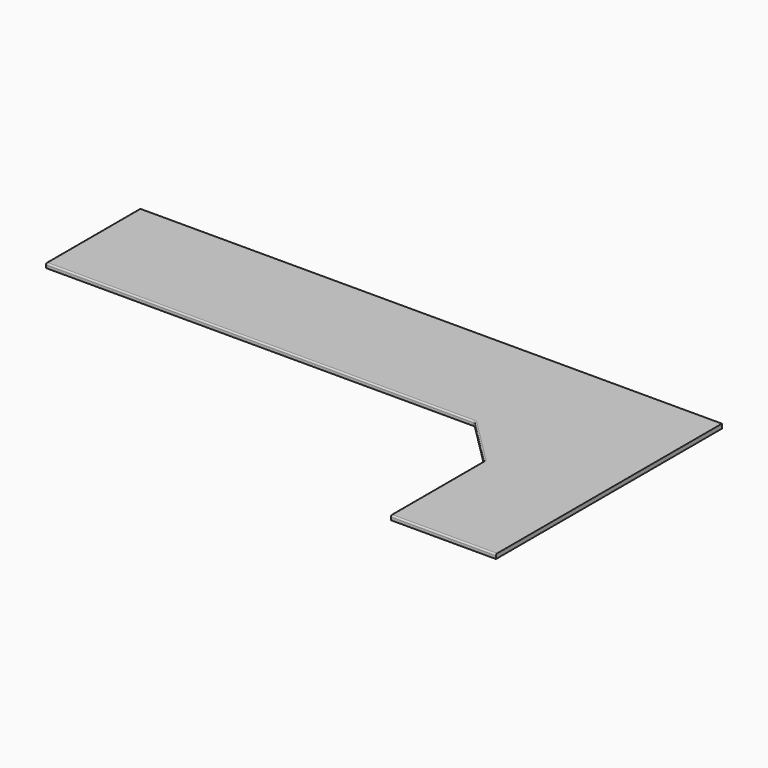
from build123d import *

# Parameters (mm, degrees)
F1_DEPTH = 19.05
F2_R     = 12.7
F3_R     = 6.35
F4_R     = 6.35


with BuildPart() as f1:
    # F0 (on Top) → F1 (new body)
    with BuildSketch(Plane.XY):
        Polygon((0, -1219.2), (0, 0), (-2514.6, 0), (-2514.6, -508), (-660.4, -508), (-457.2, -711.2), (-457.2, -1219.2), align=None)
    extrude(amount=F1_DEPTH)

    # F2
    f2_edges = [f1.edges().sort_by_distance(p)[0] for p in [
        (-660.4, -508, 9.525),
        (-457.2, -711.2, 9.525),
    ]]
    fillet(f2_edges, radius=F2_R)

    # F3
    f3_edges = [f1.edges().sort_by_distance(p)[0] for p in [
        (-1590.130256, -508, 19.05),
    ]]
    fillet(f3_edges, radius=F3_R)

    # F4
    f4_edges = [f1.edges().sort_by_distance(p)[0] for p in [
        (-225.425, -1219.2, 19.05),
        (-2514.6, -250.825, 19.05),
    ]]
    fillet(f4_edges, radius=F4_R)


solid = f1.part
